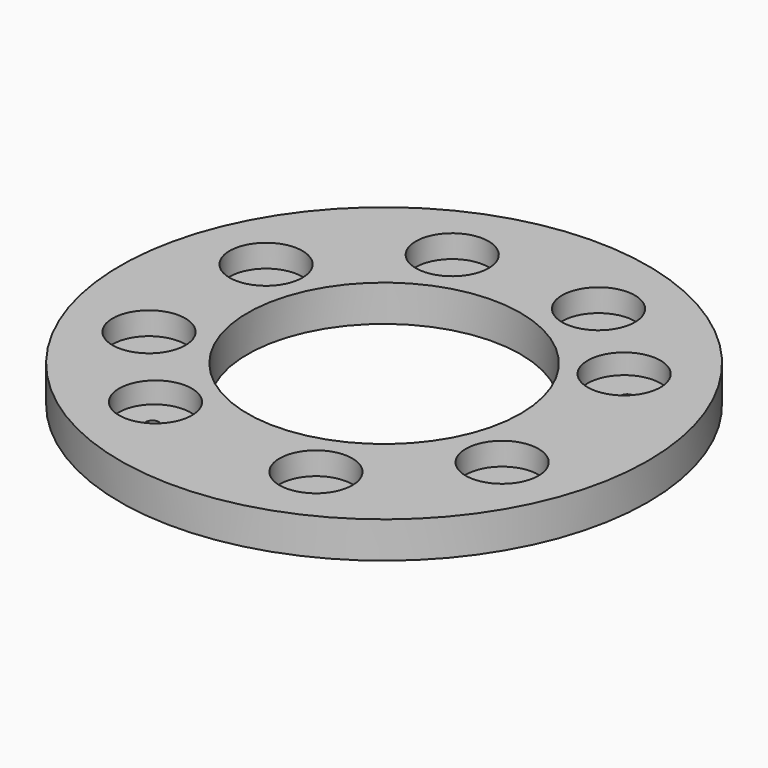
from build123d import *

# Parameters (mm, degrees)
CYLINDER702_R               = 1.5
CYLINDER702_DEPTH           = 100
CYLINDER708_R               = 1.5
CYLINDER708_DEPTH           = 100
CYLINDER708_PLACEMENT_ANGLE = 145
CYLINDER699_R               = 1.5
CYLINDER699_DEPTH           = 100
CYLINDER707_R               = 1.5
CYLINDER707_DEPTH           = 100
CYLINDER707_PLACEMENT_ANGLE = 225
CYLINDER711_R               = 1.5
CYLINDER711_DEPTH           = 100
CYLINDER710_R               = 1.5
CYLINDER710_DEPTH           = 100
CYLINDER710_PLACEMENT_ANGLE = 45
CYLINDER701_R               = 1.5
CYLINDER701_DEPTH           = 100
CYLINDER701_PLACEMENT_ANGLE = 10
CYLINDER706_R               = 1.5
CYLINDER706_DEPTH           = 100
CYLINDER706_PLACEMENT_ANGLE = 45
CYLINDER713_R               = 8
CYLINDER713_DEPTH           = 18
CYLINDER704_R               = 8
CYLINDER704_DEPTH           = 18
CYLINDER704_PLACEMENT_ANGLE = 225
CYLINDER700_R               = 8
CYLINDER700_DEPTH           = 18
CYLINDER698_R               = 8
CYLINDER698_DEPTH           = 18
CYLINDER698_PLACEMENT_ANGLE = 145
CYLINDER712_R               = 8
CYLINDER712_DEPTH           = 18
CYLINDER709_R               = 8
CYLINDER709_DEPTH           = 18
CYLINDER709_PLACEMENT_ANGLE = 45
CYLINDER705_R               = 8
CYLINDER705_DEPTH           = 18
CYLINDER705_ROLL_ANGLE      = 0.146073
CYLINDER705_PITCH_ANGLE     = 1.079101
CYLINDER705_PLACEMENT_ANGLE = -9.939308
CYLINDER703_R               = 8
CYLINDER703_DEPTH           = 18
CYLINDER703_PLACEMENT_ANGLE = 45
TUBE076_R                   = 58
TUBE076_R_2                 = 30
TUBE076_DEPTH               = 8


with BuildPart() as obj1:
    # Cylinder702 → Cylinder702 (new body)
    with BuildSketch(Plane(origin=(38.80294, -16.072704, 0), x_dir=(0, 1, 0), z_dir=(0, 0, 1))):
        Circle(CYLINDER702_R)
    extrude(amount=CYLINDER702_DEPTH)


with BuildPart() as obj2:
    # Cylinder708 → Cylinder708 (new body)
    with BuildSketch(Plane.XY):
        Circle(CYLINDER708_R)
    extrude(amount=CYLINDER708_DEPTH)


with BuildPart() as obj2_1:
    # Cylinder708 placement: moved
    add(obj2.part.moved(Location((35.44, 22.53, 0.61))).rotate(Axis((35.44, 22.53, 0.61), (0, 0, 1)), CYLINDER708_PLACEMENT_ANGLE))


with BuildPart() as obj3:
    # Cylinder699 → Cylinder699 (new body)
    with BuildSketch(Plane(origin=(16.072704, 38.80294, 0), x_dir=(-1, 0, 0), z_dir=(0, 0, 1))):
        Circle(CYLINDER699_R)
    extrude(amount=CYLINDER699_DEPTH)


with BuildPart() as obj4:
    # Cylinder707 → Cylinder707 (new body)
    with BuildSketch(Plane.XY):
        Circle(CYLINDER707_R)
    extrude(amount=CYLINDER707_DEPTH)


with BuildPart() as obj4_1:
    # Cylinder707 placement: moved
    add(obj4.part.moved(Location((-16.072704, 38.80294, 0))).rotate(Axis((-16.072704, 38.80294, 0), (0, 0, 1)), CYLINDER707_PLACEMENT_ANGLE))


with BuildPart() as obj5:
    # Cylinder711 → Cylinder711 (new body)
    with BuildSketch(Plane(origin=(-38.80294, 16.072704, 0), x_dir=(0, -1, 0), z_dir=(0, 0, 1))):
        Circle(CYLINDER711_R)
    extrude(amount=CYLINDER711_DEPTH)


with BuildPart() as obj6:
    # Cylinder710 → Cylinder710 (new body)
    with BuildSketch(Plane.XY):
        Circle(CYLINDER710_R)
    extrude(amount=CYLINDER710_DEPTH)


with BuildPart() as obj6_1:
    # Cylinder710 placement: moved
    add(obj6.part.moved(Location((-38.80294, -16.072704, 0))).rotate(Axis((-38.80294, -16.072704, 0), (0, 0, -1)), CYLINDER710_PLACEMENT_ANGLE))


with BuildPart() as obj7:
    # Cylinder701 → Cylinder701 (new body)
    with BuildSketch(Plane.XY):
        Circle(CYLINDER701_R)
    extrude(amount=CYLINDER701_DEPTH)


with BuildPart() as obj7_1:
    # Cylinder701 placement: moved
    add(obj7.part.moved(Location((-22.53, -35.45, 0.2))).rotate(Axis((-22.53, -35.45, 0.2), (0, 0, 1)), CYLINDER701_PLACEMENT_ANGLE))


with BuildPart() as compound697:
    # Cylinder706 → Cylinder706 (new body)
    with BuildSketch(Plane.XY):
        Circle(CYLINDER706_R)
    extrude(amount=CYLINDER706_DEPTH)


with BuildPart() as compound697_1:
    # Cylinder706 placement: moved
    add(compound697.part.moved(Location((16.072704, -38.80294, 0))).rotate(Axis((16.072704, -38.80294, 0), (0, 0, 1)), CYLINDER706_PLACEMENT_ANGLE))

    # Compound697: union obj1, obj2, obj3, obj4, obj5, obj6, obj7
    add(obj1.part)
    add(obj2_1.part)
    add(obj3.part)
    add(obj4_1.part)
    add(obj5.part)
    add(obj6_1.part)
    add(obj7_1.part)


with BuildPart() as obj8:
    # Cylinder713 → Cylinder713 (new body)
    with BuildSketch(Plane(origin=(-38.798949, 16.072537, 43), x_dir=(0, -1, 0), z_dir=(0, 0, 1))):
        Circle(CYLINDER713_R)
    extrude(amount=CYLINDER713_DEPTH)


with BuildPart() as obj9:
    # Cylinder704 → Cylinder704 (new body)
    with BuildSketch(Plane.XY):
        Circle(CYLINDER704_R)
    extrude(amount=CYLINDER704_DEPTH)


with BuildPart() as obj9_1:
    # Cylinder704 placement: moved
    add(obj9.part.moved(Location((-16.07, 38.8, 43))).rotate(Axis((-16.07, 38.8, 43), (0, 0, 1)), CYLINDER704_PLACEMENT_ANGLE))


with BuildPart() as obj10:
    # Cylinder700 → Cylinder700 (new body)
    with BuildSketch(Plane(origin=(16.072537, 38.798949, 43), x_dir=(-1, 0, 0), z_dir=(0, 0, 1))):
        Circle(CYLINDER700_R)
    extrude(amount=CYLINDER700_DEPTH)


with BuildPart() as obj11:
    # Cylinder698 → Cylinder698 (new body)
    with BuildSketch(Plane.XY):
        Circle(CYLINDER698_R)
    extrude(amount=CYLINDER698_DEPTH)


with BuildPart() as obj11_1:
    # Cylinder698 placement: moved
    add(obj11.part.moved(Location((34.63, 22.64, 43.6))).rotate(Axis((34.63, 22.64, 43.6), (0, 0, 1)), CYLINDER698_PLACEMENT_ANGLE))


with BuildPart() as obj12:
    # Cylinder712 → Cylinder712 (new body)
    with BuildSketch(Plane(origin=(38.798949, -16.072537, 43), x_dir=(0, 1, 0), z_dir=(0, 0, 1))):
        Circle(CYLINDER712_R)
    extrude(amount=CYLINDER712_DEPTH)


with BuildPart() as obj13:
    # Cylinder709 → Cylinder709 (new body)
    with BuildSketch(Plane.XY):
        Circle(CYLINDER709_R)
    extrude(amount=CYLINDER709_DEPTH)


with BuildPart() as obj13_1:
    # Cylinder709 placement: moved
    add(obj13.part.moved(Location((16.07, -38.8, 43))).rotate(Axis((16.07, -38.8, 43), (0, 0, 1)), CYLINDER709_PLACEMENT_ANGLE))


with BuildPart() as obj14:
    # Cylinder705 → Cylinder705 (new body)
    with BuildSketch(Plane.XY):
        Circle(CYLINDER705_R)
    extrude(amount=CYLINDER705_DEPTH)


with BuildPart() as obj14_1:
    # Cylinder705 roll: moved
    add(obj14.part.rotate(Axis((0, 0, 0), (1, 0, 0)), CYLINDER705_ROLL_ANGLE))


with BuildPart() as obj14_2:
    # Cylinder705 pitch: moved
    add(obj14_1.part.rotate(Axis((0, 0, 0), (0, 1, 0)), CYLINDER705_PITCH_ANGLE))


with BuildPart() as obj14_3:
    # Cylinder705 placement: moved
    add(obj14_2.part.moved(Location((-21.748471, -35.690226, 43.196026))).rotate(Axis((-21.748471, -35.690226, 43.196026), (0, 0, 1)), CYLINDER705_PLACEMENT_ANGLE))


with BuildPart() as compound698:
    # Cylinder703 → Cylinder703 (new body)
    with BuildSketch(Plane.XY):
        Circle(CYLINDER703_R)
    extrude(amount=CYLINDER703_DEPTH)


with BuildPart() as compound698_1:
    # Cylinder703 placement: moved
    add(compound698.part.moved(Location((-38.8, -16.07, 43))).rotate(Axis((-38.8, -16.07, 43), (0, 0, -1)), CYLINDER703_PLACEMENT_ANGLE))

    # Compound698: union obj8, obj9, obj10, obj11, obj12, obj13, obj14
    add(obj8.part)
    add(obj9_1.part)
    add(obj10.part)
    add(obj11_1.part)
    add(obj12.part)
    add(obj13_1.part)
    add(obj14_3.part)


with BuildPart() as compound698_2:
    # Compound698 placement: moved
    add(compound698_1.part.moved(Location((0, 0, 12))))


with BuildPart() as obj15:
    # Tube076 → Tube076 (new body)
    with BuildSketch(Plane.XY.offset(52)):
        Circle(TUBE076_R)
        Circle(TUBE076_R_2, mode=Mode.SUBTRACT)
    extrude(amount=TUBE076_DEPTH)

    # Cut318: cut Compound698
    add(compound698_2.part, mode=Mode.SUBTRACT)

    # Cut319: cut Compound697
    add(compound697_1.part, mode=Mode.SUBTRACT)


solid = obj15.part
